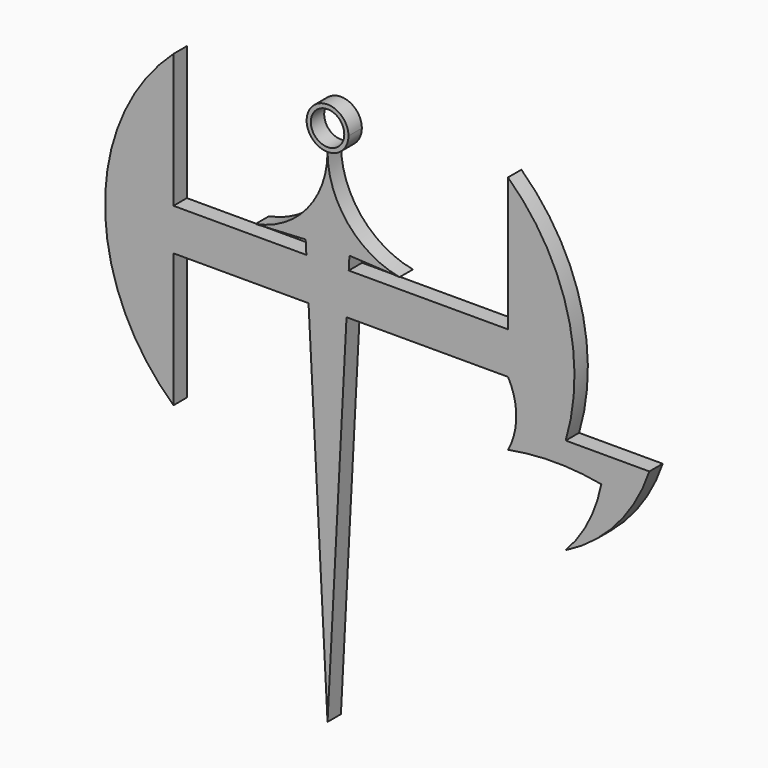
from build123d import *

# Parameters (mm, degrees)
F1_DEPTH = 2.54
F2_R     = 2.54
F3_DEPTH = 25.4


with BuildPart() as f1:
    # F0 (on Front) → F1 (new body)
    with BuildSketch(Plane.XZ):
        with BuildLine():
            Line((-19.8606117019, 13.833210381), (-20.1934011004, 20.183210381))
            Line((-20.1934011004, 20.183210381), (-40.3683818877, 20.183210381))
            Line((-40.3683818877, 20.183210381), (-40.3683818877, 40.503210381))
            ThreePointArc((-40.3683818877, 40.503210381), (-50.7631138023, 17.008210381), (-40.3683818877, -6.486789619))
            Line((-40.3683818877, -6.486789619), (-40.3683818877, 13.833210381))
            Line((-40.3683818877, 13.833210381), (-19.8606117019, 13.833210381))
        make_face()
        Polygon((-16.9760986947, 13.833210381), (-16.9760986947, 20.183210381), (-20.1934011004, 20.183210381), (-19.8606117019, 13.833210381), align=None)
        Polygon((-13.758796289, 20.183210381), (-16.9760986947, 20.183210381), (-16.9760986947, 13.833210381), (-14.0915856875, 13.833210381), align=None)
        with BuildLine():
            ThreePointArc((-6.0432084185, 21.8075988829), (-13.8873741341, 26.4290486788), (-16.9760986947, 34.9934234125))
            Line((-16.9760986947, 34.9934234125), (-16.9760986947, 20.183210381))
            Line((-16.9760986947, 20.183210381), (-13.758796289, 20.183210381))
            Line((-13.758796289, 20.183210381), (-13.6527654733, 22.2063988695))
            Line((-13.6527654733, 22.2063988695), (-6.0432084185, 21.8075988829))
        make_face()
        with BuildLine():
            Line((-16.9760986947, 20.183210381), (-16.9760986947, 34.9934234125))
            ThreePointArc((-16.9760986947, 34.9934234125), (-20.0648232553, 26.4290486788), (-27.908988971, 21.8075988829))
            Line((-27.908988971, 21.8075988829), (-20.2994319161, 22.2063988695))
            Line((-20.2994319161, 22.2063988695), (-20.1934011004, 20.183210381))
            Line((-20.1934011004, 20.183210381), (-16.9760986947, 20.183210381))
        make_face()
        Polygon((-16.9760986947, -41.2065765875), (-16.9760986947, 13.833210381), (-19.8606117019, 13.833210381), align=None)
        Polygon((-14.0915856875, 13.833210381), (-16.9760986947, 13.833210381), (-16.9760986947, -41.2065765875), align=None)
        with BuildLine():
            Line((10.4316181123, 20.183210381), (-13.758796289, 20.183210381))
            Line((-13.758796289, 20.183210381), (-14.0915856875, 13.833210381))
            Line((-14.0915856875, 13.833210381), (10.4316181123, 13.833210381))
            ThreePointArc((10.4316181123, 13.833210381), (11.6864430061, 8.9645224678), (10.4316181123, 4.0958345546))
            ThreePointArc((10.4316181123, 4.0958345546), (17.5128935273, 4.7538780033), (24.5941689423, 4.0958345546))
            ThreePointArc((24.5941689423, 4.0958345546), (22.6460179988, -1.5808020351), (19.1890278488, -6.486789619))
            ThreePointArc((19.1890278488, -6.486789619), (26.993139569, -0.4176619891), (31.8890278488, 8.1712115041))
            Line((31.8890278488, 8.1712115041), (19.1890278488, 8.1712115041))
            ThreePointArc((19.1890278488, 8.1712115041), (19.4210511996, 25.5860677284), (10.4316181123, 40.503210381))
            Line((10.4316181123, 40.503210381), (10.4316181123, 20.183210381))
        make_face()
    extrude(amount=F1_DEPTH)


with BuildPart() as f1b:
    # F0 (on Front) → F1, piece 2 (new body)
    with BuildSketch(Plane.XZ):
        with BuildLine():
            ThreePointArc((-13.8010986947, 38.1684234125), (-19.221162725, 40.4134874428), (-16.9760986947, 34.9934234125))
            ThreePointArc((-16.9760986947, 34.9934234125), (-14.7310346644, 35.9233593823), (-13.8010986947, 38.1684234125))
        make_face()
    extrude(amount=F1_DEPTH)

    # F2 (on face) → F3 (cut)
    with BuildSketch(Plane.XZ.offset(2.54)):
        with Locations((-16.9760986947, 38.1684234125)):
            Circle(F2_R)
    extrude(amount=-F3_DEPTH, mode=Mode.SUBTRACT)


solid = Compound([f1.part, f1b.part])
